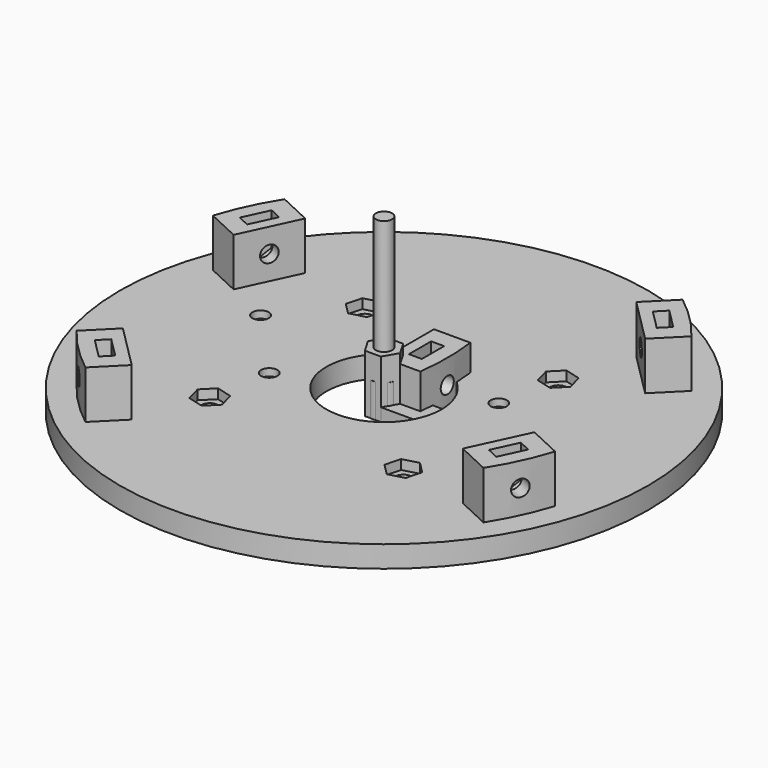
from build123d import *

# Parameters (mm, degrees)
CYLINDER_R                = 2.95
CYLINDER_DEPTH            = 7
CYLINDER001_R             = 1.7
CYLINDER001_DEPTH         = 30
PAD002_DEPTH              = 2.7
PRISM_DEPTH               = 12
CLONE271_PITCH_ANGLE      = -90
CLONE270_PITCH_ANGLE      = -90
PAD034_DEPTH              = 10
CLONE272_PLACEMENT_ANGLE  = 45
CLONE274_PLACEMENT_ANGLE  = 25
CLONE273_PLACEMENT_ANGLE  = 225
CLONE275_PLACEMENT_ANGLE  = 155
CLONE267_PLACEMENT_ANGLE  = 90
CLONE269_PLACEMENT_ANGLE  = 90
CLONE266_PLACEMENT_ANGLE  = -90
CLONE268_PLACEMENT_ANGLE  = -90
CLONE264_PLACEMENT_ANGLE  = 180
FUSION091_PLACEMENT_ANGLE = 45
ARRAY011_COUNT            = 4
SKETCH049_W               = 43
SKETCH049_H               = 4.5


with BuildPart() as m3bolthead:
    # Cylinder → Cylinder (new body)
    with BuildSketch(Plane.XY):
        Circle(CYLINDER_R)
    extrude(amount=CYLINDER_DEPTH)


with BuildPart() as m3bolt:
    # Cylinder001 → Cylinder001 (new body)
    with BuildSketch(Plane.XY.offset(6)):
        Circle(CYLINDER001_R)
    extrude(amount=CYLINDER001_DEPTH)

    # Fusion: union M3BoltHead
    add(m3bolthead.part)


with BuildPart() as m3nuthousing:
    # Sketch003 → Pad002 (new body)
    with BuildSketch(Plane.XY):
        Polygon((0, 0), (1.674316, 2.9), (21.674316, 2.9), (21.674316, -2.9), (1.674316, -2.9), align=None)
    extrude(amount=PAD002_DEPTH)


with BuildPart() as m3nut:
    # Prism → Prism (new body)
    with BuildSketch(Plane.XY):
        Polygon((3.35, 0), (1.675, 2.901185), (-1.675, 2.901185), (-3.35, 0), (-1.675, -2.901185), (1.675, -2.901185), align=None)
    extrude(amount=PRISM_DEPTH)


with BuildPart() as clone_of_m3nuthousing025:
    # Clone271 base: copy of M3NutHousing
    add(m3nuthousing.part)


with BuildPart() as clone_of_m3nuthousing025_1:
    # Clone271 pitch: moved
    add(clone_of_m3nuthousing025.part.rotate(Axis((0, 0, 0), (0, 1, 0)), CLONE271_PITCH_ANGLE))


with BuildPart() as clone_of_m3nuthousing025_2:
    # Clone271 placement: moved
    add(clone_of_m3nuthousing025_1.part.moved(Location((5, 6.5, 1.5))))


with BuildPart() as fusion093:
    # Clone270 base: copy of M3Bolt
    add(m3bolt.part)


with BuildPart() as fusion093_1:
    # Clone270 pitch: moved
    add(fusion093.part.rotate(Axis((0, 0, 0), (0, 1, 0)), CLONE270_PITCH_ANGLE))


with BuildPart() as fusion093_2:
    # Clone270 placement: moved
    add(fusion093_1.part.moved(Location((24.5, 6.5, 5))))

    # Fusion093: union Clone of M3NutHousing025
    add(clone_of_m3nuthousing025_2.part)


with BuildPart() as obj1:
    # Sketch050 → Pad034 (new body)
    with BuildSketch(Plane.XY):
        with BuildLine():
            Line((7.5757, 0), (0, 0))
            Line((0, 0), (0, 13))
            Line((0, 13), (7.5757, 13))
            ThreePointArc((7.5757, 0), (8, 6.5), (7.5757, 13))
        make_face()
    extrude(amount=PAD034_DEPTH)

    # Cut080: cut Fusion093
    add(fusion093_2.part, mode=Mode.SUBTRACT)


with BuildPart() as obj2:
    # Clone272 base: copy of obj1
    add(obj1.part)


with BuildPart() as obj2_1:
    # Clone272 placement: moved
    add(obj2.part.moved(Location((34.294679, 25.102291, 4.5))).rotate(Axis((34.294679, 25.102291, 4.5), (0, 0, 1)), CLONE272_PLACEMENT_ANGLE))


with BuildPart() as obj3:
    # Clone274 base: copy of obj1
    add(obj1.part)


with BuildPart() as obj3_1:
    # Clone274 placement: moved
    add(obj3.part.moved(Location((35.317908, -23.640968, 4.5))).rotate(Axis((35.317908, -23.640968, 4.5), (0, 0, -1)), CLONE274_PLACEMENT_ANGLE))


with BuildPart() as obj4:
    # Clone273 base: copy of obj1
    add(obj1.part)


with BuildPart() as obj4_1:
    # Clone273 placement: moved
    add(obj4.part.moved(Location((-34.294679, -25.102291, 4.5))).rotate(Axis((-34.294679, -25.102291, 4.5), (0, 0, 1)), CLONE273_PLACEMENT_ANGLE))


with BuildPart() as obj5:
    # Clone275 base: copy of obj1
    add(obj1.part)


with BuildPart() as obj5_1:
    # Clone275 placement: moved
    add(obj5.part.moved(Location((-35.317908, 23.640968, 4.5))).rotate(Axis((-35.317908, 23.640968, 4.5), (0, 0, 1)), CLONE275_PLACEMENT_ANGLE))


with BuildPart() as clone_of_m3bolt091:
    # Clone267 base: copy of M3Bolt
    add(m3bolt.part)


with BuildPart() as clone_of_m3bolt091_1:
    # Clone267 placement: moved
    add(clone_of_m3bolt091.part.moved(Location((-17.9, -7.5, -4))).rotate(Axis((-17.9, -7.5, -4), (0, 0, 1)), CLONE267_PLACEMENT_ANGLE))


with BuildPart() as clone_of_m3bolt093:
    # Clone269 base: copy of M3Bolt
    add(m3bolt.part)


with BuildPart() as clone_of_m3bolt093_1:
    # Clone269 placement: moved
    add(clone_of_m3bolt093.part.moved(Location((-31.7, 7.5, -4))).rotate(Axis((-31.7, 7.5, -4), (0, 0, 1)), CLONE269_PLACEMENT_ANGLE))


with BuildPart() as clone_of_m3bolt090:
    # Clone266 base: copy of M3Bolt
    add(m3bolt.part)


with BuildPart() as clone_of_m3bolt090_1:
    # Clone266 placement: moved
    add(clone_of_m3bolt090.part.moved(Location((17.9, 7.5, -4))).rotate(Axis((17.9, 7.5, -4), (0, 0, 1)), CLONE266_PLACEMENT_ANGLE))


with BuildPart() as clone_of_m3bolt092:
    # Clone268 base: copy of M3Bolt
    add(m3bolt.part)


with BuildPart() as clone_of_m3bolt092_1:
    # Clone268 placement: moved
    add(clone_of_m3bolt092.part.moved(Location((31.7, -7.5, -4))).rotate(Axis((31.7, -7.5, -4), (0, 0, 1)), CLONE268_PLACEMENT_ANGLE))


with BuildPart() as clone_of_m3nut013:
    # Clone265 base: copy of M3Nut
    add(m3nut.part)


with BuildPart() as clone_of_m3nut013_1:
    # Clone265 placement: moved
    add(clone_of_m3nut013.part.moved(Location((28.5, 0, 2.5))))


with BuildPart() as fusion092:
    # Clone264 base: copy of M3Bolt
    add(m3bolt.part)


with BuildPart() as fusion092_1:
    # Clone264 placement: moved
    add(fusion092.part.moved(Location((28.5, 0, 25))).rotate(Axis((28.5, 0, 25), (1, 0, 0)), CLONE264_PLACEMENT_ANGLE))

    # Fusion091: union Clone of M3Nut013
    add(clone_of_m3nut013_1.part)


with BuildPart() as fusion092_2:
    # Fusion091 placement: moved
    add(fusion092_1.part.rotate(Axis((0, 0, 0), (0, 0, 1)), FUSION091_PLACEMENT_ANGLE))

    # Array011: Fusion092 ×4 about axis
    array011_axis = Axis((0, 0, 0), (0, 0, 1))


with BuildPart() as fusion092_3:
    add(fusion092_2.part)
    for i in range(1, ARRAY011_COUNT):
        add(fusion092_2.part.rotate(array011_axis, i * 360 / ARRAY011_COUNT))

    # Fusion092: union Clone of M3Bolt091, Clone of M3Bolt093, Clone of M3Bolt090, Clone of M3Bolt092
    add(clone_of_m3bolt091_1.part)
    add(clone_of_m3bolt093_1.part)
    add(clone_of_m3bolt090_1.part)
    add(clone_of_m3bolt092_1.part)


with BuildPart() as obj6:
    # Sketch049 → Revolution011 (revolve)
    with BuildSketch(Plane.XZ):
        with Locations((33.5, 2.25)):
            Rectangle(SKETCH049_W, SKETCH049_H)
    revolve(axis=Axis((0, 0, 0), (0, 0, 1)))

    # Cut079: cut Fusion092
    add(fusion092_3.part, mode=Mode.SUBTRACT)

    # Fusion107: union obj2, obj3, obj4, obj5
    add(obj2_1.part)
    add(obj3_1.part)
    add(obj4_1.part)
    add(obj5_1.part)


solid = Compound([m3bolt.part, m3nuthousing.part, m3nut.part, obj1.part, obj6.part])
